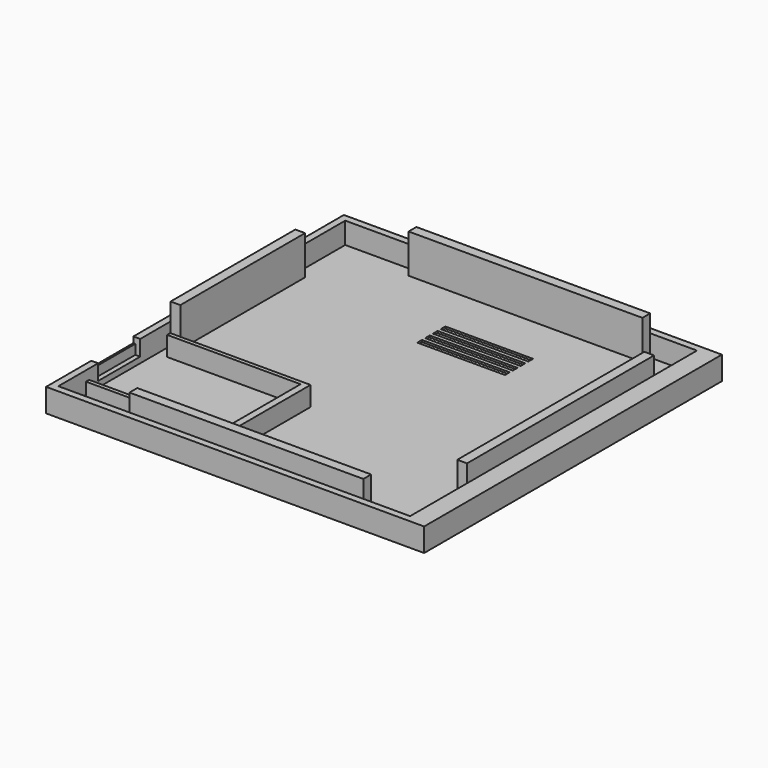
from build123d import *

# Parameters (mm, degrees)
SKETCH_W            = 194
SKETCH_H            = 191
PAD_DEPTH           = 12
SKETCH002_W         = 180.5
SKETCH002_H         = 184
POCKET_DEPTH        = 11
SKETCH004_W         = 120
SKETCH004_H         = 5
SKETCH004_W_2       = 5
SKETCH004_H_2       = 120
SKETCH004_H_3       = 80
PAD001_DEPTH        = 20
SKETCH005_W         = 72
SKETCH005_H         = 54
PAD002_DEPTH        = 10
SKETCH006_W         = 70
SKETCH006_H         = 50
POCKET001_DEPTH     = 10
SKETCH007_W         = 27
SKETCH007_H         = 3
POCKET002_DEPTH     = 5
SKETCH008_W         = 2.5
SKETCH008_H         = 27
POCKET003_DEPTH     = 5
SKETCH009_W         = 45
SKETCH009_H         = 3
POCKET004_DEPTH     = 5
LINEARPATTERN_COUNT = 4
LINEARPATTERN_PITCH = 5


with BuildPart() as part:
    # Sketch → Pad (new body)
    with BuildSketch(Plane.XY):
        with Locations((97, 95.5)):
            Rectangle(SKETCH_W, SKETCH_H)
    extrude(amount=-PAD_DEPTH)

    # Sketch002 → Pocket (cut)
    with BuildSketch(Plane.XY):
        with Locations((93.75, 95.5)):
            Rectangle(SKETCH002_W, SKETCH002_H)
    extrude(amount=-POCKET_DEPTH, mode=Mode.SUBTRACT)

    # Sketch004 (on Face11 of Pocket) → Pad001 (join)
    with BuildSketch(Plane.XY.offset(-11)):
        with Locations((100, 185)):
            Rectangle(SKETCH004_W, SKETCH004_H)
        with Locations((100, 6)):
            Rectangle(SKETCH004_W, SKETCH004_H)
        with Locations((181.5, 100)):
            Rectangle(SKETCH004_W_2, SKETCH004_H_2)
        with Locations((6, 115.5)):
            Rectangle(SKETCH004_W_2, SKETCH004_H_3)
    extrude(amount=PAD001_DEPTH)

    # Sketch005 (on Face20 of Pad001) → Pad002 (join)
    with BuildSketch(Plane.XY.offset(-11)):
        with Locations((44.5, 42)):
            Rectangle(SKETCH005_W, SKETCH005_H)
    extrude(amount=PAD002_DEPTH)

    # Sketch006 (on Face40 of Pad002) → Pocket001 (cut)
    with BuildSketch(Plane.XY.offset(-1)):
        with Locations((42, 42)):
            Rectangle(SKETCH006_W, SKETCH006_H)
    extrude(amount=-POCKET001_DEPTH, mode=Mode.SUBTRACT)

    # Sketch007 (on Face2 of Pocket001) → Pocket002 (cut)
    with BuildSketch(Plane(origin=(0, 0, 0), x_dir=(0, -1, 0), z_dir=(-1, 0, 0))):
        with Locations((-42.5, -1.5)):
            Rectangle(SKETCH007_W, SKETCH007_H)
    extrude(amount=-POCKET002_DEPTH, mode=Mode.SUBTRACT)

    # Sketch008 (on Face7 of Pocket002) → Pocket003 (cut)
    with BuildSketch(Plane.XY.offset(-3)):
        with Locations((2.25, 42.5)):
            Rectangle(SKETCH008_W, SKETCH008_H)
    extrude(amount=-POCKET003_DEPTH, mode=Mode.SUBTRACT)

    # Sketch009 (on Face22 of Pocket003) → Pocket004 (cut)
    with BuildSketch(Plane.XY.offset(-11)):
        with Locations((101.5, 155.868176)):
            Rectangle(SKETCH009_W, SKETCH009_H)
    pocket004 = extrude(amount=-POCKET004_DEPTH, mode=Mode.SUBTRACT)

    # LinearPattern: Pocket004 ×4
    with Locations(*[(0, -i * LINEARPATTERN_PITCH, 0) for i in range(1, LINEARPATTERN_COUNT)]):
        add(pocket004, mode=Mode.SUBTRACT)


solid = part.part
